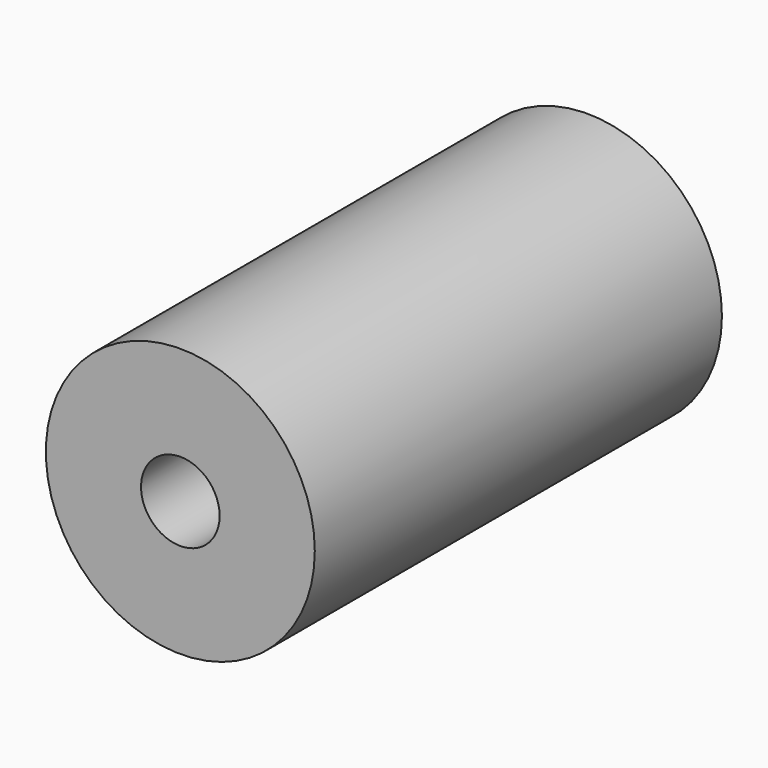
from build123d import *

# Parameters (mm, degrees)
F0_R     = 32.5
F0_R_2   = 9.5
F1_DEPTH = 123
F2_R     = 9.5
F3_DEPTH = 73


with BuildPart() as f1:
    # F0 (on Front) → F1 (new body)
    with BuildSketch(Plane.XZ):
        Circle(F0_R)
        Circle(F0_R_2, mode=Mode.SUBTRACT)
        Circle(F0_R)
        Circle(F0_R_2, mode=Mode.SUBTRACT)
    extrude(amount=F1_DEPTH)

    # F2 (on Front) → F3 (join)
    with BuildSketch(Plane.XZ):
        Circle(F2_R)
    extrude(amount=F3_DEPTH)


solid = f1.part
